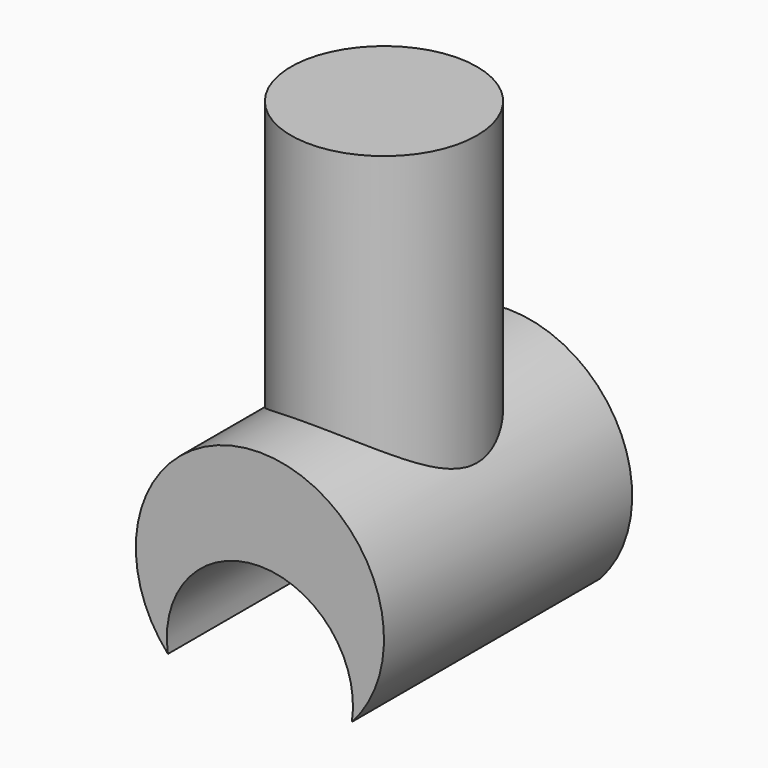
from build123d import *

# Parameters (mm, degrees)
F1_DEPTH = 2.5
F2_R     = 1.5
F3_DEPTH = 5


with BuildPart() as f1:
    # F0 (on Front) → F1 (new body, symmetric)
    with BuildSketch(Plane.XZ):
        with BuildLine():
            ThreePointArc((-1.482662, -2.310049), (0, -0.582641), (1.482662, -2.310049))
            ThreePointArc((1.482662, -2.310049), (0, 1.032231), (-1.482662, -2.310049))
        make_face()
    extrude(amount=F1_DEPTH, both=True)

    # F2 (on Top) → F3 (join)
    with BuildSketch(Plane.XY):
        Circle(F2_R)
    extrude(amount=F3_DEPTH)


solid = f1.part
